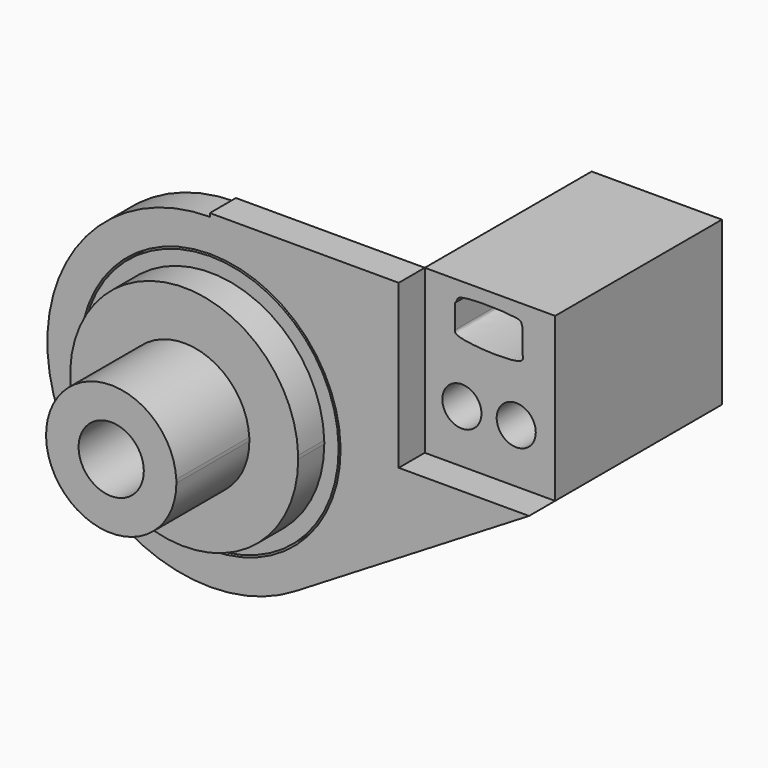
from build123d import *

# Parameters (mm, degrees)
F1_DEPTH = 5
F2_DEPTH = 10
F3_DEPTH = 24
F4_DEPTH = 5
F0_W     = 19.9999999128
F0_H     = 16.0793430998
F0_R     = 3
F5_DEPTH = 32


with BuildPart() as f1:
    # F0 (on Front) → F1 (new body)
    with BuildSketch(Plane.XZ):
        with BuildLine():
            ThreePointArc((19.6885552701, 0.5142584548), (13.7212705794, 14.1290623918), (-0.0624083048, 19.6951713774))
            ThreePointArc((-0.0624083048, 19.6951713774), (-13.9045769794, -13.9487063704), (19.6952702541, 0))
            ThreePointArc((19.6952702541, 0), (19.6935914366, 0.2571511469), (19.6885552701, 0.5142584548))
        make_face()
        with BuildLine():
            ThreePointArc((17.5, 0), (-17.4981104774, -0.2571569934), (17.4924423178, 0.5142584548))
            ThreePointArc((17.4924423178, 0.5142584548), (17.4981104774, 0.2571569934), (17.5, 0))
        make_face(mode=Mode.SUBTRACT)
    extrude(amount=F1_DEPTH)

    # F0 (on Front) → F2 (join)
    with BuildSketch(Plane.XZ):
        with BuildLine():
            ThreePointArc((17.5, 0), (17.4981104774, 0.2571569934), (17.4924423178, 0.5142584548))
            ThreePointArc((17.4924423178, 0.5142584548), (-17.4981104774, -0.2571569934), (17.5, 0))
        make_face()
        with BuildLine():
            ThreePointArc((10, 0), (-9.9966914922, -0.257214327), (9.986768158, 0.5142584548))
            ThreePointArc((9.986768158, 0.5142584548), (9.9966914922, 0.257214327), (10, 0))
        make_face(mode=Mode.SUBTRACT)
    extrude(amount=F2_DEPTH)

    # F0 (on Front) → F3 (join)
    with BuildSketch(Plane.XZ):
        with BuildLine():
            ThreePointArc((10, 0), (9.9966914922, 0.257214327), (9.986768158, 0.5142584548))
            ThreePointArc((9.986768158, 0.5142584548), (-9.9966914922, -0.257214327), (10, 0))
        make_face()
        with BuildLine():
            ThreePointArc((5, 0), (-4.9933664776, -0.2574708151), (4.9734835117, 0.5142584548))
            ThreePointArc((4.9734835117, 0.5142584548), (4.9933664776, 0.2574708151), (5, 0))
        make_face(mode=Mode.SUBTRACT)
    extrude(amount=F3_DEPTH)


with BuildPart() as f4:
    # F0 (on Front) → F4 (new body)
    with BuildSketch(Plane.XZ):
        with BuildLine():
            Line((48.9291776827, 0.5142584548), (28.9291777699, 0.5142584548))
            Line((28.9291777699, 0.5142584548), (28.9291777699, 16.5936015546))
            Line((28.9291777699, 16.5936015546), (28.9291777699, 25.5123911165))
            Line((28.9291777699, 25.5123911165), (-0.062951188, 25.5096842107))
            Line((-0.062951188, 25.5096842107), (-0.062903593, 24.9999208626))
            ThreePointArc((-0.062903593, 24.9999208626), (-24.0630921848, -6.7799405976), (12.9980148264, -21.3553649131))
            Line((12.9980148264, -21.3553649131), (48.9291776827, 0.5142584548))
        make_face()
        with BuildLine():
            ThreePointArc((20, 0), (-14.1200436413, -14.1641931492), (-0.0624367567, 19.999902541))
            ThreePointArc((-0.0624367567, 19.999902541), (13.936760003, 14.3445711201), (19.9933873629, 0.5142584548))
            ThreePointArc((19.9933873629, 0.5142584548), (19.9983467724, 0.2571504838), (20, 0))
        make_face(mode=Mode.SUBTRACT)
    extrude(amount=F4_DEPTH)

    # F0 (on Front) → F5 (join)
    with BuildSketch(Plane.XZ):
        with Locations((38.9291777263, 8.5539300047)):
            Rectangle(F0_W, F0_H)
        with Locations((34.6211157739, 8.624332957)):
            Circle(F0_R, mode=Mode.SUBTRACT)
        with Locations((42.9610460997, 8.809665218)):
            Circle(F0_R, mode=Mode.SUBTRACT)
        Polygon((28.9291777699, 25.5123911165), (28.9291777699, 16.5936015546), (48.9291776827, 16.5936015546), (48.9291776827, 25.5142584548), align=None)
        with BuildLine():
            Line((33.5434526205, 18.6031218618), (33.5434526205, 22.2659111023))
            add(Edge.make_bspline(
                [(33.5434526205, 22.2659111023), (33.6592351355, 22.3999873246), (33.9122815123, 22.6930151819), (33.941472744, 23.8171713388), (43.5232256, 23.5869056558), (43.7403175902, 22.869850346), (43.8821976786, 22.467888622), (43.9534895122, 22.2659111023)],
                knots=[0, 0, 0, 0, 0.1175287878, 0.2568629118, 0.7478550882, 0.8733023548, 1, 1, 1, 1], degree=3))
            Line((43.9534895122, 22.2659111023), (43.9534895122, 18.6031218618))
            add(Edge.make_bspline(
                [(33.5434526205, 18.6031218618), (33.5413148269, 18.4025177074), (33.5311730419, 17.4508429484), (44.2953377816, 16.8523187746), (44.019580962, 18.2646292475), (43.9534895122, 18.6031218618)],
                knots=[0, 0, 0, 0, 0.1687976394, 0.80078328, 1, 1, 1, 1], degree=3))
        make_face(mode=Mode.SUBTRACT)
    extrude(amount=-F5_DEPTH)


solid = Compound([f1.part, f4.part])
